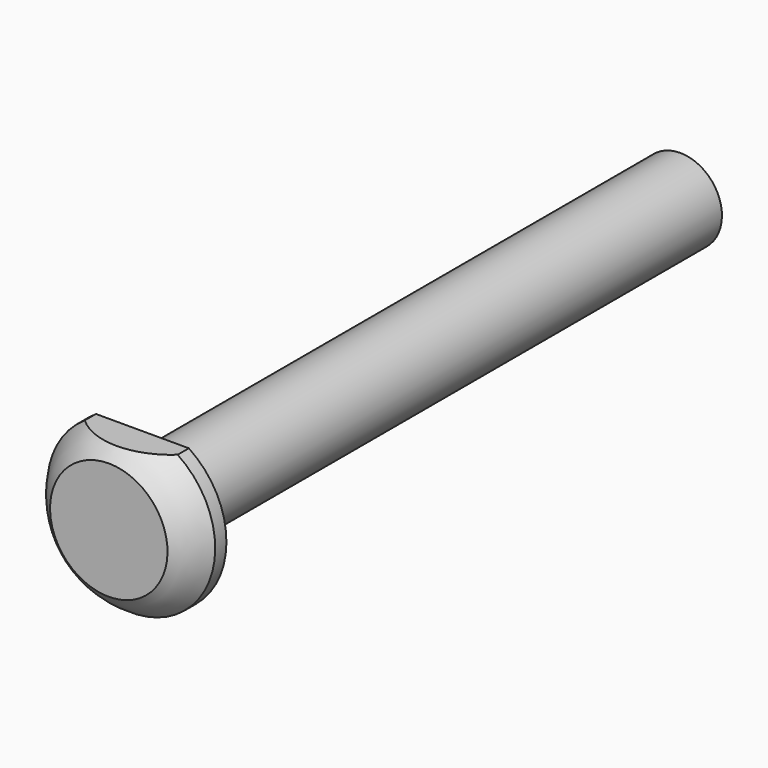
from build123d import *

# Parameters (mm, degrees)
F0_W     = 76.2
F0_H     = 4.7244
F3_DEPTH = 4.7625


with BuildPart() as f1:
    # F0 (on Right) → F1 (revolve)
    with BuildSketch(Plane.YZ):
        with Locations((38.1, 2.3622)):
            Rectangle(F0_W, F0_H)
        with BuildLine():
            Line((-4.7625, 0), (0, 0))
            Line((0, 0), (0, 4.7244))
            Line((0, 4.7244), (0, 9.525))
            Line((0, 9.525), (-1.5875, 9.525))
            ThreePointArc((-1.5875, 9.525), (-3.314423, 8.244646), (-4.7625, 6.655734))
            Line((-4.7625, 6.655734), (-4.7625, 0))
        make_face()
    revolve(axis=Axis((0, 38.1, 0), (0, 1, 0)))

    # F2 (on face) → F3 (cut)
    with BuildSketch(Plane.XZ.offset(4.7625)):
        Polygon((-9.190321, 7.9375), (0, 7.9375), (9.859679, 7.9375), (9.859679, 11.747576), (-9.190321, 11.747576), align=None)
    extrude(amount=-F3_DEPTH, mode=Mode.SUBTRACT)


solid = f1.part
